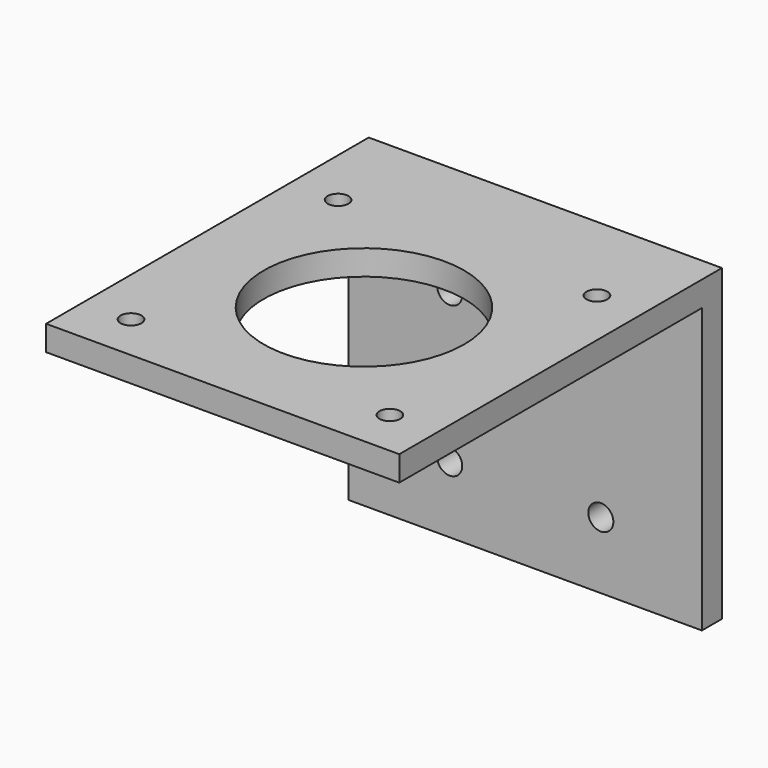
from build123d import *

# Parameters (mm, degrees)
SKETCH_W     = 42.3
SKETCH_H     = 48.3
SKETCH_R     = 1.25
SKETCH_R_2   = 12
PAD_DEPTH    = 3
SKETCH001_W  = 42.3
SKETCH001_H  = 3
PAD001_DEPTH = 34
SKETCH002_R  = 1.5
POCKET_DEPTH = 48.301


with BuildPart() as part:
    # Sketch → Pad (new body)
    with BuildSketch(Plane.XY):
        with Locations((21.15, 24.15)):
            Rectangle(SKETCH_W, SKETCH_H)
        with Locations((5.65, 36.65)):
            Circle(SKETCH_R, mode=Mode.SUBTRACT)
        with Locations((36.65, 36.65)):
            Circle(SKETCH_R, mode=Mode.SUBTRACT)
        with Locations((5.65, 5.65)):
            Circle(SKETCH_R, mode=Mode.SUBTRACT)
        with Locations((36.65, 5.65)):
            Circle(SKETCH_R, mode=Mode.SUBTRACT)
        with Locations((21.15, 21.15)):
            Circle(SKETCH_R_2, mode=Mode.SUBTRACT)
    extrude(amount=PAD_DEPTH)

    # Sketch001 → Pad001 (new body)
    with BuildSketch(Plane(origin=(0, 0, 0), x_dir=(1, 0, 0), z_dir=(0, 0, -1))):
        with Locations((21.15, -46.8)):
            Rectangle(SKETCH001_W, SKETCH001_H)
    extrude(amount=PAD001_DEPTH)

    # Sketch002 → Pocket (cut, through all)
    with BuildSketch(Plane(origin=(0, 48.3, 0), x_dir=(-1, 0, 0), z_dir=(0, 1, 0))):
        with Locations((-30.2, -8)):
            Circle(SKETCH002_R)
        with Locations((-12.1, -8)):
            Circle(SKETCH002_R)
        with Locations((-30.2, -26)):
            Circle(SKETCH002_R)
        with Locations((-12.1, -26)):
            Circle(SKETCH002_R)
    extrude(amount=-POCKET_DEPTH, mode=Mode.SUBTRACT)


solid = part.part
